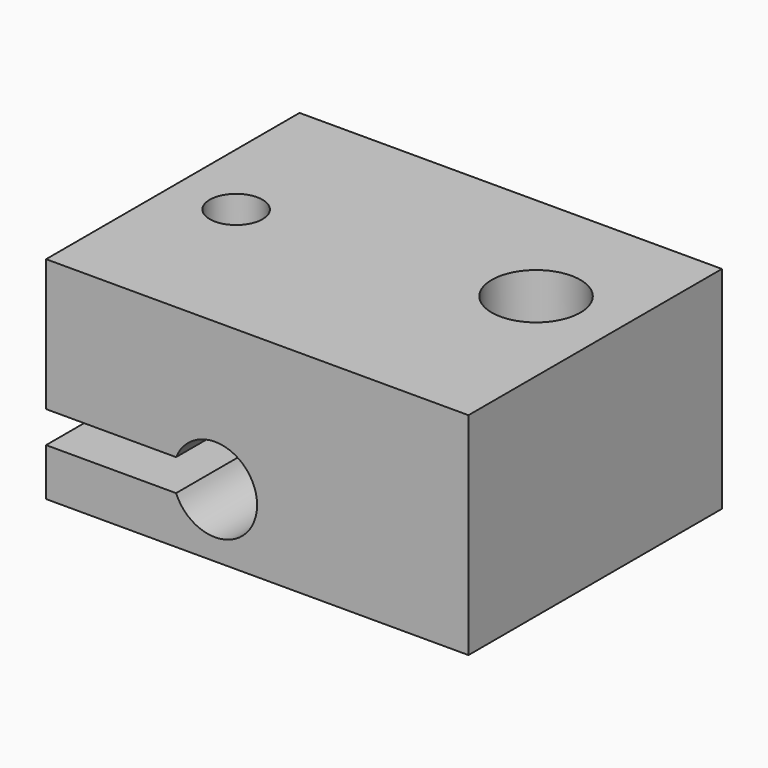
from build123d import *

# Parameters (mm, degrees)
F0_W     = 20
F0_H     = 15
F1_DEPTH = 10
F3_D     = 4.2
F5_DEPTH = 15.001
F7_D     = 3.5
F7_DEPTH = 3
F7_TIP   = 1.0515060833
F9_D     = 2.5


with BuildPart() as f1:
    # F0 (on Top) → F1 (new body)
    with BuildSketch(Plane.XY):
        Rectangle(F0_W, F0_H)
    extrude(amount=F1_DEPTH)

    # F3 (through all)
    with Locations(Plane.XY.offset(10)):
        with Locations((6, 1.5)):
            Hole(F3_D / 2)

    # F4 (on face) → F5 (cut, through all)
    with BuildSketch(Plane.XZ.offset(7.5)):
        with BuildLine():
            ThreePointArc((-3.8446359594, 2.25), (-1.6178994152, 1.0457275099), (-0.0087235695, 3))
            ThreePointArc((-0.0087235695, 3), (-1.6178994152, 4.9542724901), (-3.8446359594, 3.75))
            ThreePointArc((-3.8446359594, 3.75), (-3.9912764305, 3), (-3.8446359594, 2.25))
        make_face()
        with BuildLine():
            ThreePointArc((-3.8446359594, 2.25), (-3.9912764305, 3), (-3.8446359594, 3.75))
            Line((-3.8446359594, 3.75), (-10, 3.75))
            Line((-10, 3.75), (-10, 2.25))
            Line((-10, 2.25), (-3.8446359594, 2.25))
        make_face()
    extrude(amount=-F5_DEPTH, mode=Mode.SUBTRACT)

    # F7
    with Locations(Plane(origin=(0, 0, 0), x_dir=(1, 0, 0), z_dir=(0, 0, -1))):
        with Locations((-7, 0)):
            Hole(F7_D / 2, depth=F7_DEPTH)
            with Locations((0, 0, -(F7_DEPTH + F7_TIP / 2))):  # 118° drill point
                Cone(0, F7_D / 2, F7_TIP, mode=Mode.SUBTRACT)

    # F9 (through all)
    with Locations(Plane.XY.offset(10)):
        with Locations((-7, 0)):
            Hole(F9_D / 2)


solid = f1.part
